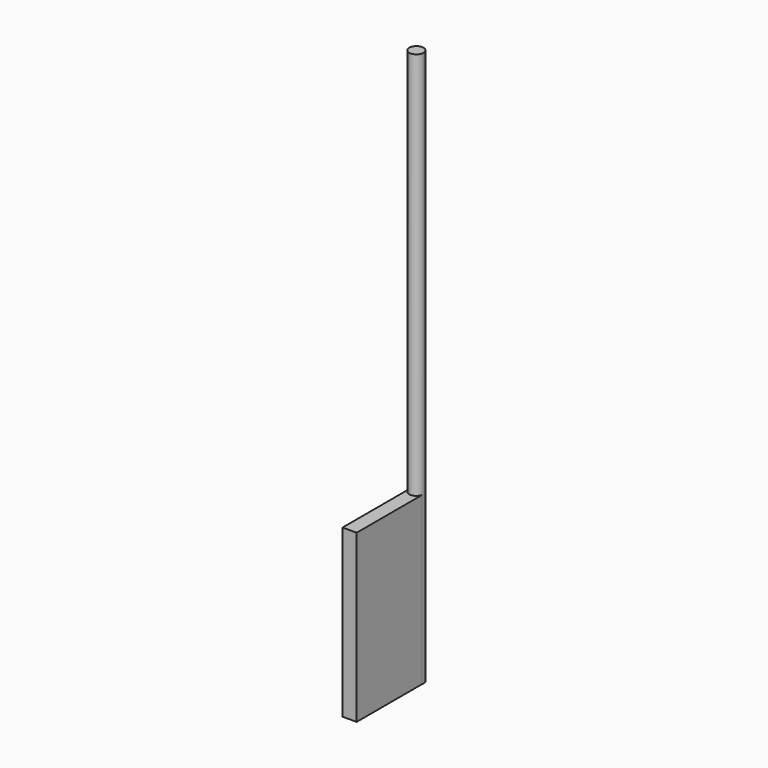
from build123d import *

# Parameters (mm, degrees)
F0_R     = 12.7
F1_DEPTH = 1000
F2_W     = 25.4
F2_H     = 300
F3_DEPTH = 150


with BuildPart() as f1:
    # F0 (on Top) → F1 (new body)
    with BuildSketch(Plane.XY):
        Circle(F0_R)
    extrude(amount=F1_DEPTH)

    # F2 (on Front) → F3 (join)
    with BuildSketch(Plane.XZ):
        with Locations((-0.310831, 150)):
            Rectangle(F2_W, F2_H)
    extrude(amount=F3_DEPTH)


solid = f1.part
